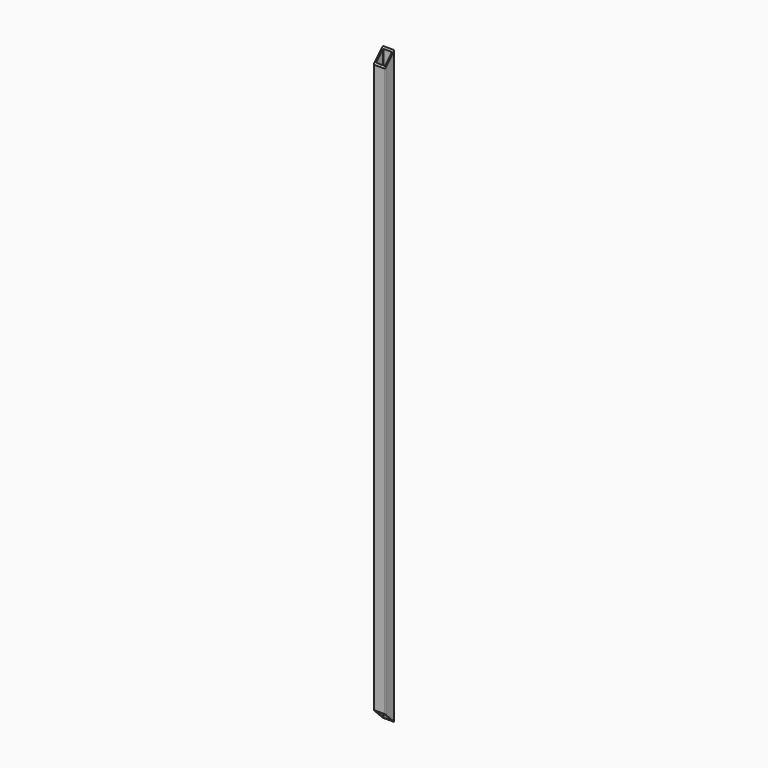
from build123d import *

# Parameters (mm, degrees)
F1_DEPTH = 2565.4
F3_DEPTH = 50.801


with BuildPart() as f1:
    # F0 (on Top) → F1 (new body)
    with BuildSketch(Plane.XY):
        with BuildLine():
            Line((22.225, 25.4), (-22.225, 25.4))
            ThreePointArc((-22.225, 25.4), (-24.470064, 24.470064), (-25.4, 22.225))
            Line((-25.4, 22.225), (-25.4, -22.225))
            ThreePointArc((-25.4, -22.225), (-24.470064, -24.470064), (-22.225, -25.4))
            Line((-22.225, -25.4), (22.225, -25.4))
            ThreePointArc((22.225, -25.4), (24.470064, -24.470064), (25.4, -22.225))
            Line((25.4, -22.225), (25.4, 22.225))
            ThreePointArc((25.4, 22.225), (24.470064, 24.470064), (22.225, 25.4))
        make_face()
        with BuildLine():
            ThreePointArc((-19.05, 17.4625), (-18.585032, 18.585032), (-17.4625, 19.05))
            Line((-17.4625, 19.05), (17.4625, 19.05))
            ThreePointArc((17.4625, 19.05), (18.585032, 18.585032), (19.05, 17.4625))
            Line((19.05, 17.4625), (19.05, -17.4625))
            ThreePointArc((19.05, -17.4625), (18.585032, -18.585032), (17.4625, -19.05))
            Line((17.4625, -19.05), (-17.4625, -19.05))
            ThreePointArc((-17.4625, -19.05), (-18.585032, -18.585032), (-19.05, -17.4625))
            Line((-19.05, -17.4625), (-19.05, 17.4625))
        make_face(mode=Mode.SUBTRACT)
    extrude(amount=F1_DEPTH)

    # F2 (on face) → F3 (cut, through all)
    with BuildSketch(Plane.YZ.offset(25.4)):
        Polygon((-25.4, 2514.6), (25.4, 2565.4), (-25.4, 2565.4), align=None)
        Polygon((-25.4, 0), (25.4, 0), (-25.4, 50.8), align=None)
    extrude(amount=-F3_DEPTH, mode=Mode.SUBTRACT)


solid = f1.part
